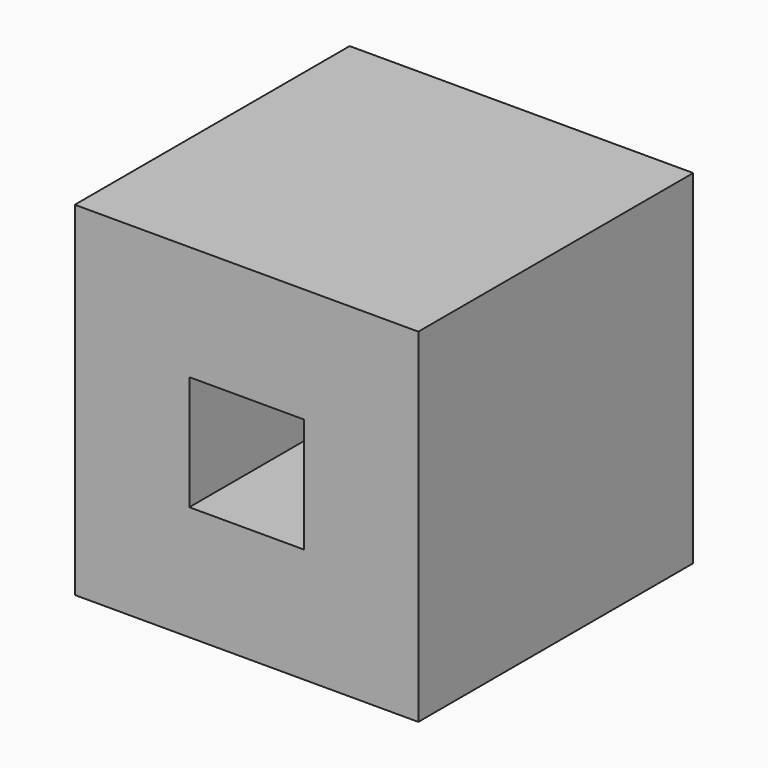
from build123d import *

# Parameters (mm, degrees)
F0_W     = 76.2
F0_H     = 76.2
F1_DEPTH = 76.2
F2_W     = 25.4
F2_H     = 25.4
F3_DEPTH = 76.201


with BuildPart() as f1:
    # F0 (on Front) → F1 (new body)
    with BuildSketch(Plane.XZ):
        Rectangle(F0_W, F0_H)
    extrude(amount=F1_DEPTH)

    # F2 (on Front) → F3 (cut, through all)
    with BuildSketch(Plane.XZ):
        Rectangle(F2_W, F2_H)
    extrude(amount=F3_DEPTH, mode=Mode.SUBTRACT)


solid = f1.part
